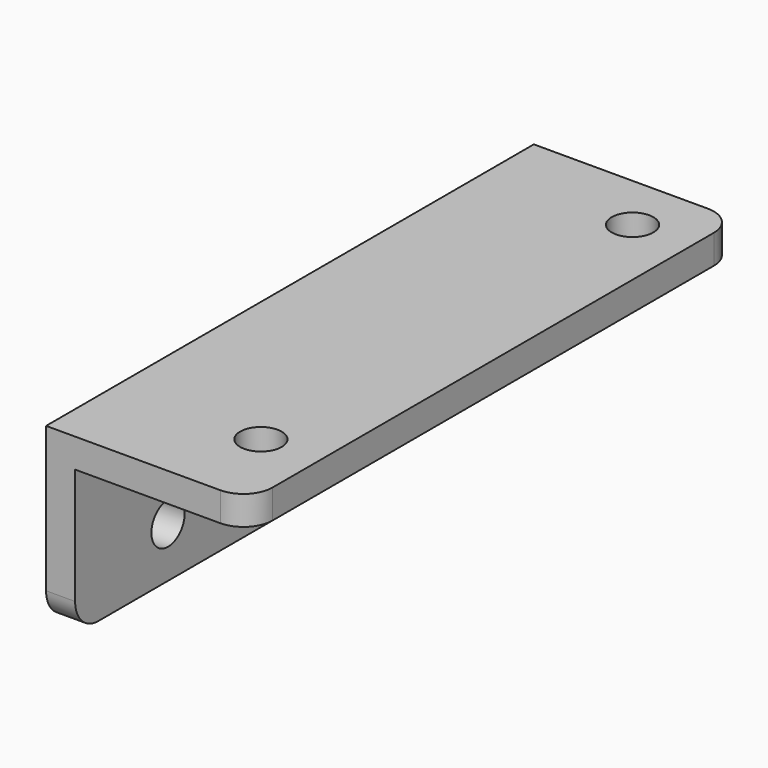
from build123d import *

# Parameters (mm, degrees)
F1_DEPTH = 133.35
F2_R     = 4.5466
F3_DEPTH = 25.4
F4_R     = 4.5466
F5_DEPTH = 25.4
F6_R     = 6.35


with BuildPart() as f1:
    # F0 (on Front) → F1 (new body)
    with BuildSketch(Plane.XZ):
        Polygon((-40.797278, 26.517693), (-40.797278, -11.582307), (-34.447278, -11.582307), (-34.447278, 20.167693), (3.652722, 20.167693), (3.652722, 26.517693), align=None)
    extrude(amount=F1_DEPTH)

    # F2 (on face) → F3 (cut)
    with BuildSketch(Plane(origin=(-40.797278, 0, 0), x_dir=(0, -1, 0), z_dir=(-1, 0, 0))):
        with Locations((107.95, -0.482507)):
            Circle(F2_R)
        with Locations((44.45, -0.482507)):
            Circle(F2_R)
    extrude(amount=-F3_DEPTH, mode=Mode.SUBTRACT)

    # F4 (on face) → F5 (cut)
    with BuildSketch(Plane.XY.offset(26.517693)):
        with Locations((-9.047278, -12.7)):
            Circle(F4_R)
        with Locations((-9.047278, -114.3)):
            Circle(F4_R)
    extrude(amount=-F5_DEPTH, mode=Mode.SUBTRACT)

    # F6
    f6_edges = [f1.edges().sort_by_distance(p)[0] for p in [
        (3.652722, 0, 23.342693),
        (-37.622278, 0, -11.582307),
        (3.652722, -133.35, 23.342693),
        (-37.622278, -133.35, -11.582307),
    ]]
    fillet(f6_edges, radius=F6_R)


solid = f1.part
